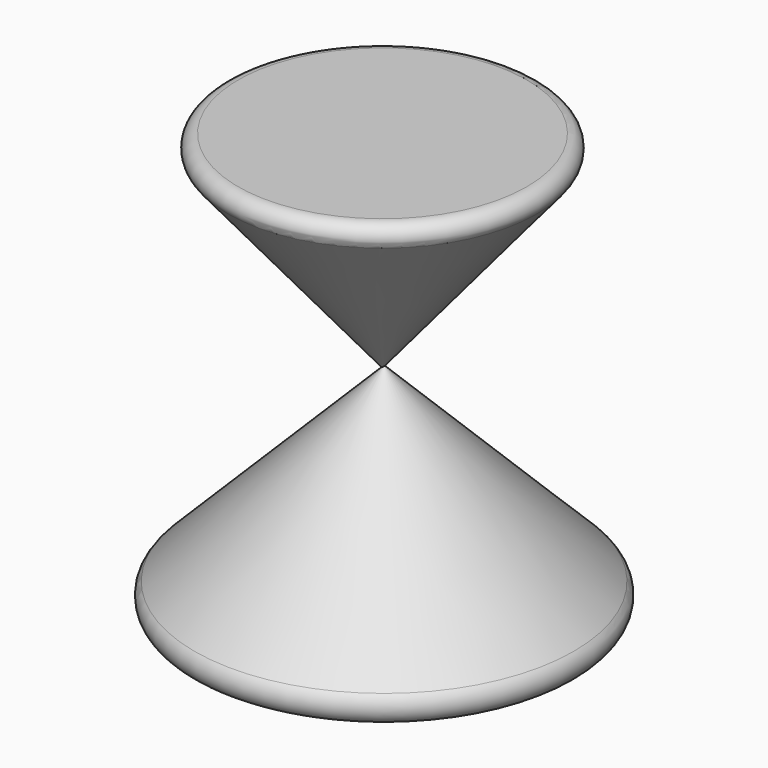
from build123d import *

# Parameters (mm, degrees)
F2_R = 2.5281634783
F5_R = 1.8773668217


with BuildPart() as f1:
    # F0 (on Front) → F1 (revolve)
    with BuildSketch(Plane.XZ):
        Polygon((-12.0703522116, 0), (-44.3681403995, 32.4136614799), (-44.3681403995, 0), align=None)
    revolve(axis=Axis((-44.3681403995, 0, 16.20683074), (0, 0, -1)))

    # F2
    f2_edges = [f1.edges().sort_by_distance(p)[0] for p in [
        (-76.665929, 0, 0),
        (-28.219246, 0, 16.206831),
    ]]
    fillet(f2_edges, radius=F2_R)

    # F3 (on Front) → F4 (revolve)
    with BuildSketch(Plane.XZ):
        Polygon((-44.6098931134, 62.4538473785), (-44.6098931134, 31.946439296), (-19.2829854786, 62.4538473785), align=None)
    revolve(axis=Axis((-44.6098931134, 0, 47.2001433372), (0, 0, 1)))

    # F5
    f5_edges = [f1.edges().sort_by_distance(p)[0] for p in [
        (-69.936801, 0, 62.453847),
    ]]
    fillet(f5_edges, radius=F5_R)


solid = f1.part
